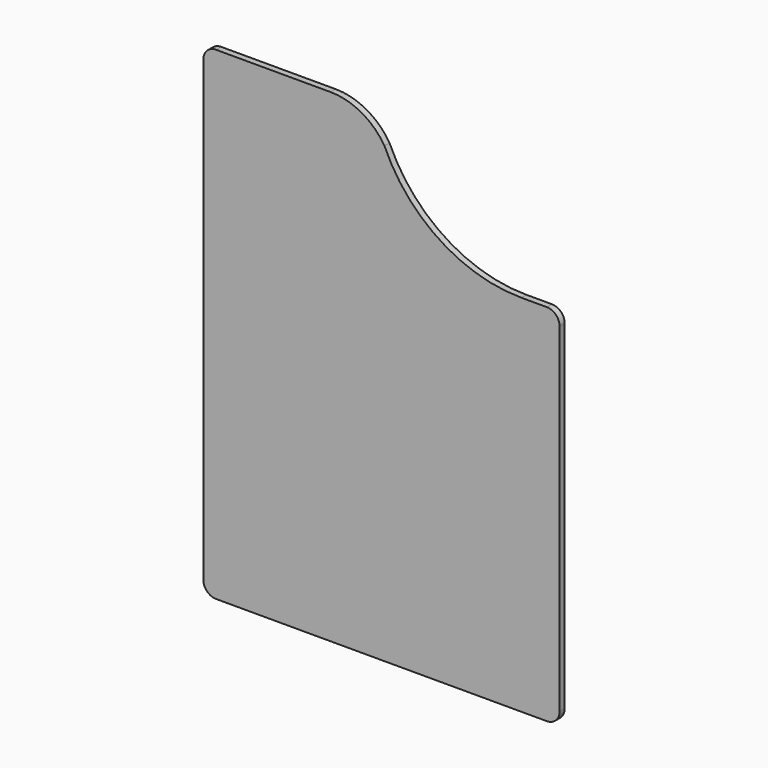
from build123d import *

# Parameters (mm, degrees)
F1_DEPTH = 1.27


with BuildPart() as f1:
    # F0 (on Front) → F1 (new body)
    with BuildSketch(Plane.XZ):
        with BuildLine():
            Line((3.246805, 57.773859), (-19.613195, 57.773859))
            ThreePointArc((-19.613195, 57.773859), (-21.409247, 57.02991), (-22.153195, 55.233859))
            Line((-22.153195, 55.233859), (-22.153195, -36.206141))
            ThreePointArc((-22.153195, -36.206141), (-21.409247, -38.002193), (-19.613195, -38.746141))
            Line((-19.613195, -38.746141), (46.426805, -38.746141))
            ThreePointArc((46.426805, -38.746141), (48.222856, -38.002193), (48.966805, -36.206141))
            Line((48.966805, -36.206141), (48.966805, 31.477067))
            ThreePointArc((48.966805, 31.477067), (48.222856, 33.273119), (46.426805, 34.017067))
            Line((46.426805, 34.017067), (41.346805, 34.017067))
            ThreePointArc((41.346805, 34.017067), (25.02413, 38.865573), (13.995192, 51.838633))
            ThreePointArc((13.995192, 51.838633), (9.385916, 56.191471), (3.246805, 57.773859))
        make_face()
    extrude(amount=F1_DEPTH)


solid = f1.part
